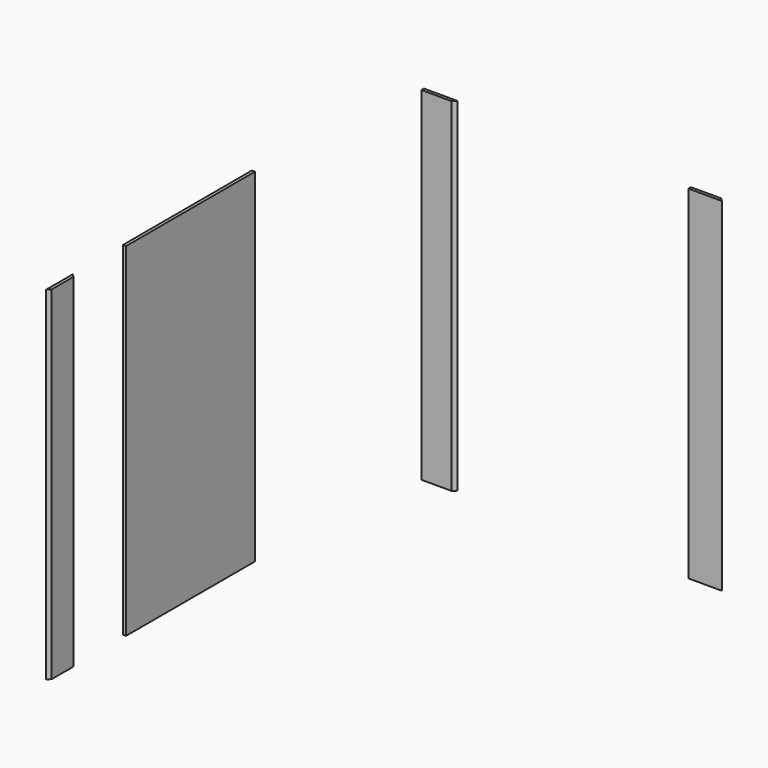
from build123d import *

# Parameters (mm, degrees)
F0_W      = 977.9
F0_H      = 2082.8
F1_DEPTH  = 19.05
F2_W      = 203.2
F2_H      = 2082.8
F3_DEPTH  = 19.05
F5_DEPTH  = 2082.8
F6_W      = 203.2
F6_H      = 2082.8
F7_DEPTH  = 19.05
F9_DEPTH  = 2082.8
F10_W     = 203.2
F10_H     = 2082.8
F11_DEPTH = 19.05
F13_DEPTH = 2082.8


with BuildPart() as f1:
    # F0 (on Right) → F1 (new body)
    with BuildSketch(Plane.YZ):
        with Locations((-97.009351, 2.449164)):
            Rectangle(F0_W, F0_H)
    extrude(amount=F1_DEPTH)


with BuildPart() as f3:
    # F2 (on Front) → F3 (new body)
    with BuildSketch(Plane.XZ):
        with Locations((3080.463687, 1041.4)):
            Rectangle(F2_W, F2_H)
    extrude(amount=F3_DEPTH)

    # F4 (on face) → F5 (cut)
    with BuildSketch(Plane.XY.offset(2082.8)):
        Polygon((3163.013687, 0), (3182.063687, -19.05), (3182.063687, 0), align=None)
    extrude(amount=-F5_DEPTH, mode=Mode.SUBTRACT)


with BuildPart() as f7:
    # F6 (on face) → F7 (new body)
    with BuildSketch(Plane.XZ.offset(19.05)):
        with Locations((1459.589167, 1041.4)):
            Rectangle(F6_W, F6_H)
    extrude(amount=-F7_DEPTH)

    # F8 (on face) → F9 (cut)
    with BuildSketch(Plane.XY.offset(2082.8)):
        Polygon((1561.189167, 0), (1542.139167, -19.05), (1561.189167, -19.05), align=None)
    extrude(amount=-F9_DEPTH, mode=Mode.SUBTRACT)


with BuildPart() as f11:
    # F10 (on face) → F11 (new body)
    with BuildSketch(Plane.YZ.offset(19.05)):
        with Locations((-1091.234893, 16.256571)):
            Rectangle(F10_W, F10_H)
    extrude(amount=F11_DEPTH)

    # F12 (on face) → F13 (cut)
    with BuildSketch(Plane.XY.offset(1057.656571)):
        Polygon((38.1, -1192.834893), (38.1, -1173.784893), (19.05, -1192.834893), align=None)
        Polygon((19.05, -989.634893), (38.1, -1008.684893), (38.1, -989.634893), align=None)
    extrude(amount=-F13_DEPTH, mode=Mode.SUBTRACT)


solid = Compound([f1.part, f3.part, f7.part, f11.part])
